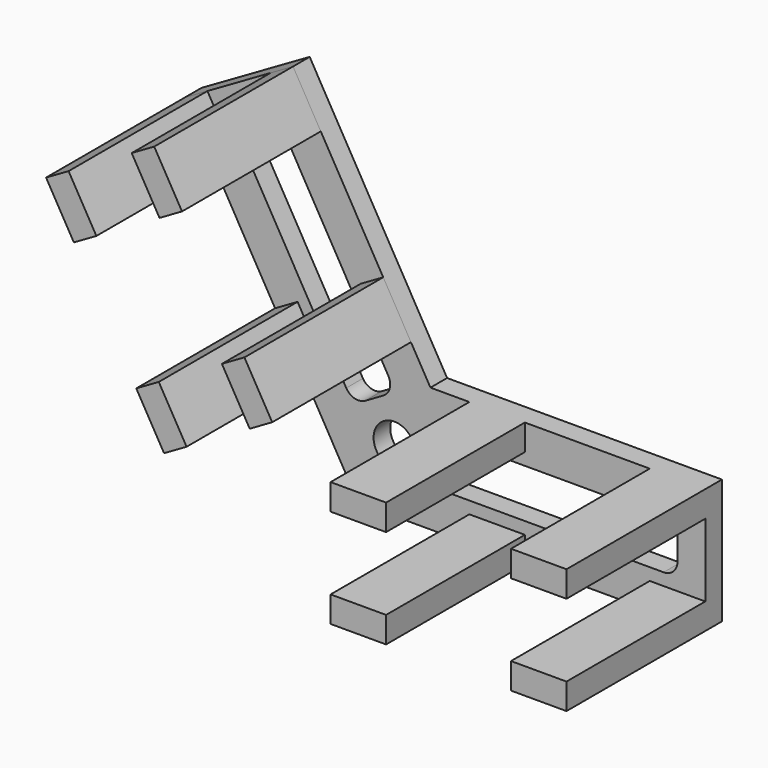
from build123d import *

# Parameters (mm, degrees)
F1_DEPTH = 3
F2_W     = 8
F2_H     = 3.75
F3_DEPTH = 25
F4_R     = 3
F5_DEPTH = 3.001


with BuildPart() as f1:
    # F0 (on Front) → F1 (new body)
    with BuildSketch(Plane.XZ):
        Polygon((-25, 43.30127), (0, 0), (50, 0), (50, 18), (10.392305, 18), (-9.411543, 52.30127), align=None)
    extrude(amount=F1_DEPTH)

    # F2 (on face) → F3 (join)
    with BuildSketch(Plane.XZ.offset(3)):
        with Locations((46, 16.125)):
            Rectangle(F2_W, F2_H)
        with Locations((46, 1.875)):
            Rectangle(F2_W, F2_H)
        with Locations((20, 1.875)):
            Rectangle(F2_W, F2_H)
        with Locations((20, 16.125)):
            Rectangle(F2_W, F2_H)
        Polygon((4.340862, 20.981406), (7.588457, 22.856406), (3.588457, 29.78461), (0.340862, 27.90961), align=None)
        Polygon((-12, 20.78461), (-8, 13.856406), (-4.752405, 15.731406), (-8.752405, 22.65961), align=None)
        Polygon((-17.752405, 38.248067), (-21.752405, 45.17627), (-25, 43.30127), (-21, 36.373067), align=None)
        Polygon((-8.659138, 43.498067), (-5.411543, 45.373067), (-9.411543, 52.30127), (-12.659138, 50.42627), align=None)
    extrude(amount=F3_DEPTH)

    # F4 (on face) → F5 (cut, through all)
    with BuildSketch(Plane.XZ.offset(3)):
        with BuildLine():
            ThreePointArc((3.593267, 14.776279), (4.525118, 15.990692), (4.325318, 17.50833))
            Line((4.325318, 17.50833), (-11.174682, 44.355118))
            ThreePointArc((-11.174682, 44.355118), (-12.389095, 45.286969), (-13.906733, 45.087169))
            Line((-13.906733, 45.087169), (-16.504809, 43.587169))
            ThreePointArc((-16.504809, 43.587169), (-17.436661, 42.372756), (-17.23686, 40.855118))
            Line((-17.23686, 40.855118), (-1.73686, 14.00833))
            ThreePointArc((-1.73686, 14.00833), (-0.522448, 13.076479), (0.995191, 13.276279))
            Line((0.995191, 13.276279), (3.593267, 14.776279))
        make_face()
        with BuildLine():
            Line((44, 12.5), (13, 12.5))
            ThreePointArc((13, 12.5), (11.585786, 11.914214), (11, 10.5))
            Line((11, 10.5), (11, 7.5))
            ThreePointArc((11, 7.5), (11.585786, 6.085786), (13, 5.5))
            Line((13, 5.5), (44, 5.5))
            ThreePointArc((44, 5.5), (45.414214, 6.085786), (46, 7.5))
            Line((46, 7.5), (46, 10.5))
            ThreePointArc((46, 10.5), (45.414214, 11.914214), (44, 12.5))
        make_face()
        with Locations((5.196152, 9)):
            Circle(F4_R)
    extrude(amount=-F5_DEPTH, mode=Mode.SUBTRACT)


solid = f1.part
